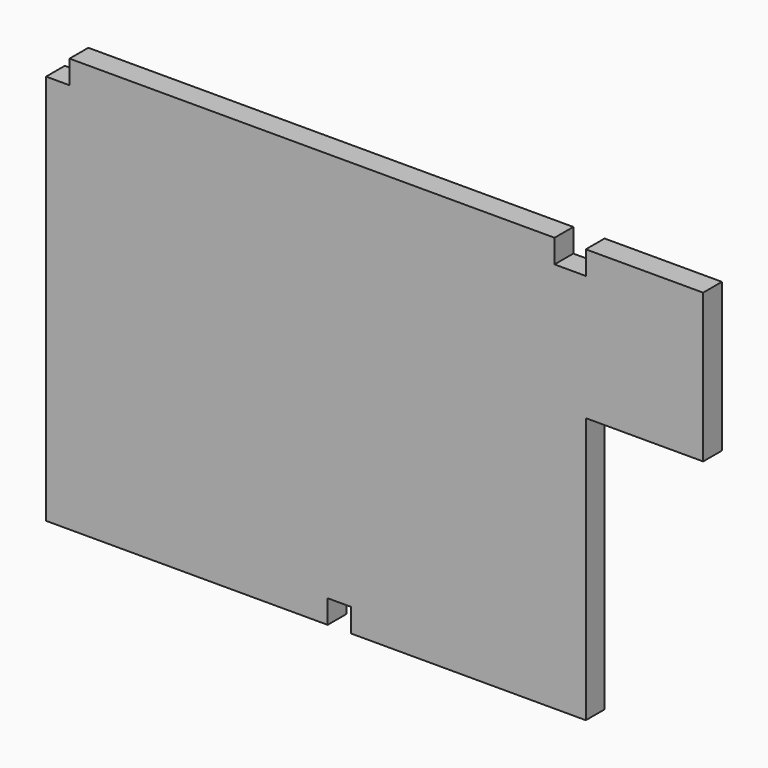
from build123d import *

# Parameters (mm, degrees)
F0_W     = 84
F0_H     = 53
F1_DEPTH = 3
F2_W     = 15
F2_H     = 34
F3_DEPTH = 25
F4_W     = 4
F4_H     = 3
F5_DEPTH = 25
F6_W     = 3
F6_H     = 3
F7_DEPTH = 25
F8_W     = 3
F8_H     = 3
F9_DEPTH = 25


with BuildPart() as f1:
    # F0 (on Front) → F1 (new body)
    with BuildSketch(Plane.XZ):
        with Locations((17.273909, -6.373649)):
            Rectangle(F0_W, F0_H)
    extrude(amount=F1_DEPTH)

    # F2 (on face) → F3 (cut)
    with BuildSketch(Plane.XZ.offset(3)):
        with Locations((51.773909, -15.873649)):
            Rectangle(F2_W, F2_H)
    extrude(amount=-F3_DEPTH, mode=Mode.SUBTRACT)

    # F4 (on face) → F5 (cut)
    with BuildSketch(Plane.XZ.offset(3)):
        with Locations((42.273909, 18.626351)):
            Rectangle(F4_W, F4_H)
    extrude(amount=-F5_DEPTH, mode=Mode.SUBTRACT)

    # F6 (on face) → F7 (cut)
    with BuildSketch(Plane.XZ.offset(3)):
        with Locations((-23.226091, 18.626351)):
            Rectangle(F6_W, F6_H)
    extrude(amount=-F7_DEPTH, mode=Mode.SUBTRACT)

    # F8 (on face) → F9 (cut)
    with BuildSketch(Plane.XZ.offset(3)):
        with Locations((12.773909, -31.373649)):
            Rectangle(F8_W, F8_H)
    extrude(amount=-F9_DEPTH, mode=Mode.SUBTRACT)


solid = f1.part
